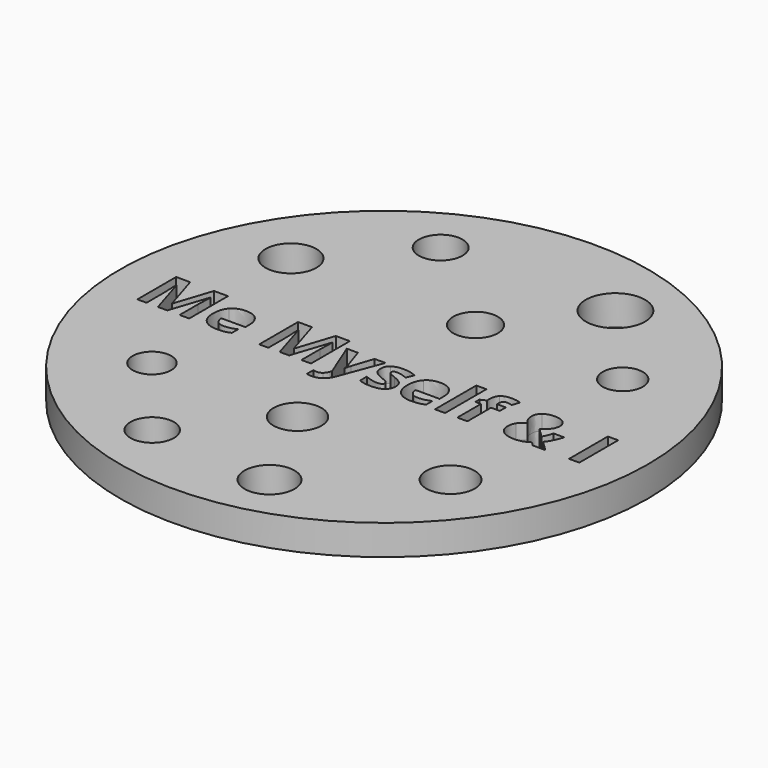
from build123d import *

# Parameters (mm, degrees)
F0_R     = 44.45
F0_W     = 1.7034223922
F0_H     = 8.6922802655
F0_W_2   = 1.7320212991
F0_H_2   = 8.1667753513
F1_DEPTH = 2.54
F2_R     = 3.6835932487
F2_R_2   = 3.3820051101
F2_R_3   = 3.2545137876
F2_R_4   = 4.2852526164
F2_R_5   = 4.9881322436
F2_R_6   = 4.2077682853
F2_R_7   = 4.0753540918
F2_R_8   = 4.0428833322
F2_R_9   = 3.7635417895
F2_R_10  = 3.6494043154
F3_DEPTH = 25.4
F4_DEPTH = 25.4


with BuildPart() as f1:
    # F0 (on Top) → F1 (new body, symmetric)
    with BuildSketch(Plane.XY):
        Circle(F0_R)
        with BuildLine():
            Line((-32.2921823926, -5.2659112288), (-33.8794217255, -5.2659112288))
            Line((-33.8794217255, -5.2659112288), (-35.8455965748, 1.1402439165))
            Line((-35.8455965748, 1.1402439165), (-35.8956446618, 1.1402439165))
            add(Edge.make_bspline(
                [(-35.8956446618, 1.1402439165), (-35.788398761, -0.813418911), (-35.788398761, -1.4676189063)],
                knots=[0, 0, 0, 1, 1, 1], degree=2))
            Line((-35.788398761, -1.4676189063), (-35.788398761, -5.2659112288))
            Line((-35.788398761, -5.2659112288), (-37.3363145969, -5.2659112288))
            Line((-37.3363145969, -5.2659112288), (-37.3363145969, 2.9008641224))
            Line((-37.3363145969, 2.9008641224), (-34.9786922094, 2.9008641224))
            Line((-34.9786922094, 2.9008641224), (-33.0464785621, -3.3444221716))
            Line((-33.0464785621, -3.3444221716), (-33.0125173601, -3.3444221716))
            Line((-33.0125173601, -3.3444221716), (-30.9623332218, 2.9008641224))
            Line((-30.9623332218, 2.9008641224), (-28.606498266, 2.9008641224))
            Line((-28.606498266, 2.9008641224), (-28.606498266, -5.2659112288))
            Line((-28.606498266, -5.2659112288), (-30.2205490741, -5.2659112288))
            Line((-30.2205490741, -5.2659112288), (-30.2205490741, -1.3996965025))
            add(Edge.make_bspline(
                [(-30.2205490741, -1.3996965025), (-30.2205490741, -1.1262194552), (-30.2116119157, -0.768733119)],
                knots=[0, 0, 0, 1, 1, 1], degree=2))
            add(Edge.make_bspline(
                [(-30.2116119157, -0.768733119), (-30.2026747573, -0.4112467828), (-30.1365397851, 1.1295193264)],
                knots=[0, 0, 0, 1, 1, 1], degree=2))
            Line((-30.1365397851, 1.1295193264), (-30.1865878722, 1.1295193264))
            Line((-30.1865878722, 1.1295193264), (-32.2921823926, -5.2659112288))
        make_face(mode=Mode.SUBTRACT)
        with BuildLine():
            add(Edge.make_bspline(
                [(-22.6186021341, -5.2694860922), (-23.1262327316, -5.3785194247), (-23.8590797208, -5.3785194247)],
                knots=[0, 0, 0, 1, 1, 1], degree=2))
            add(Edge.make_bspline(
                [(-23.8590797208, -5.3785194247), (-25.3658846281, -5.3785194247), (-26.2149146766, -4.5455762613)],
                knots=[0, 0, 0, 1, 1, 1], degree=2))
            add(Edge.make_bspline(
                [(-26.2149146766, -4.5455762613), (-27.0639447252, -3.7126330979), (-27.0639447252, -2.1879538738)],
                knots=[0, 0, 0, 1, 1, 1], degree=2))
            add(Edge.make_bspline(
                [(-27.0639447252, -2.1879538738), (-27.0639447252, -0.6185888578), (-26.2792622171, 0.2384846333)],
                knots=[0, 0, 0, 1, 1, 1], degree=2))
            add(Edge.make_bspline(
                [(-26.2792622171, 0.2384846333), (-25.4945797091, 1.0955581245), (-24.1093201562, 1.0955581245)],
                knots=[0, 0, 0, 1, 1, 1], degree=2))
            add(Edge.make_bspline(
                [(-24.1093201562, 1.0955581245), (-22.7866207121, 1.0955581245), (-22.0493051436, 0.3421556708)],
                knots=[0, 0, 0, 1, 1, 1], degree=2))
            add(Edge.make_bspline(
                [(-22.0493051436, 0.3421556708), (-21.3119895752, -0.4112467828), (-21.3119895752, -1.7410959536)],
                knots=[0, 0, 0, 1, 1, 1], degree=2))
            Line((-21.3119895752, -1.7410959536), (-21.3119895752, -2.5686768219))
            Line((-21.3119895752, -2.5686768219), (-25.3390731528, -2.5686768219))
            add(Edge.make_bspline(
                [(-25.3390731528, -2.5686768219), (-25.3104742459, -3.2943740845), (-24.9083021177, -3.7019085078)],
                knots=[0, 0, 0, 1, 1, 1], degree=2))
            add(Edge.make_bspline(
                [(-24.9083021177, -3.7019085078), (-24.5061299894, -4.1094429311), (-23.7804327269, -4.1094429311)],
                knots=[0, 0, 0, 1, 1, 1], degree=2))
            add(Edge.make_bspline(
                [(-23.7804327269, -4.1094429311), (-23.2156043156, -4.1094429311), (-22.7133360132, -3.992366156)],
                knots=[0, 0, 0, 1, 1, 1], degree=2))
            add(Edge.make_bspline(
                [(-22.7133360132, -3.992366156), (-22.2110677108, -3.8752893809), (-21.6641136164, -3.6178992188)],
                knots=[0, 0, 0, 1, 1, 1], degree=2))
            Line((-21.6641136164, -3.6178992188), (-21.6641136164, -4.9370237995))
            add(Edge.make_bspline(
                [(-21.6641136164, -4.9370237995), (-22.1109715366, -5.1604527596), (-22.6186021341, -5.2694860922)],
                knots=[0, 0, 0, 1, 1, 1], degree=2))
        make_face(mode=Mode.SUBTRACT)
        with BuildLine():
            Line((-11.7760415561, -5.2659112288), (-13.363280889, -5.2659112288))
            Line((-13.363280889, -5.2659112288), (-15.3294557383, 1.1402439165))
            Line((-15.3294557383, 1.1402439165), (-15.3795038254, 1.1402439165))
            add(Edge.make_bspline(
                [(-15.3795038254, 1.1402439165), (-15.2722579245, -0.813418911), (-15.2722579245, -1.4676189063)],
                knots=[0, 0, 0, 1, 1, 1], degree=2))
            Line((-15.2722579245, -1.4676189063), (-15.2722579245, -5.2659112288))
            Line((-15.2722579245, -5.2659112288), (-16.8201737604, -5.2659112288))
            Line((-16.8201737604, -5.2659112288), (-16.8201737604, 2.9008641224))
            Line((-16.8201737604, 2.9008641224), (-14.4625513729, 2.9008641224))
            Line((-14.4625513729, 2.9008641224), (-12.5303377256, -3.3444221716))
            Line((-12.5303377256, -3.3444221716), (-12.4963765236, -3.3444221716))
            Line((-12.4963765236, -3.3444221716), (-10.4461923853, 2.9008641224))
            Line((-10.4461923853, 2.9008641224), (-8.0903574295, 2.9008641224))
            Line((-8.0903574295, 2.9008641224), (-8.0903574295, -5.2659112288))
            Line((-8.0903574295, -5.2659112288), (-9.7044082376, -5.2659112288))
            Line((-9.7044082376, -5.2659112288), (-9.7044082376, -1.3996965025))
            add(Edge.make_bspline(
                [(-9.7044082376, -1.3996965025), (-9.7044082376, -1.1262194552), (-9.6954710792, -0.768733119)],
                knots=[0, 0, 0, 1, 1, 1], degree=2))
            add(Edge.make_bspline(
                [(-9.6954710792, -0.768733119), (-9.6865339208, -0.4112467828), (-9.6203989486, 1.1295193264)],
                knots=[0, 0, 0, 1, 1, 1], degree=2))
            Line((-9.6203989486, 1.1295193264), (-9.6704470357, 1.1295193264))
            Line((-9.6704470357, 1.1295193264), (-11.7760415561, -5.2659112288))
        make_face(mode=Mode.SUBTRACT)
        with BuildLine():
            Line((-4.5816290394, -5.2212254368), (-7.0625842129, 0.9793750652))
            Line((-7.0625842129, 0.9793750652), (-5.1965055377, 0.9793750652))
            Line((-5.1965055377, 0.9793750652), (-4.0185880598, -2.53471562))
            add(Edge.make_bspline(
                [(-4.0185880598, -2.53471562), (-3.8666563669, -2.9922981304), (-3.8112459848, -3.6178992188)],
                knots=[0, 0, 0, 1, 1, 1], degree=2))
            Line((-3.8112459848, -3.6178992188), (-3.7772847829, -3.6178992188))
            add(Edge.make_bspline(
                [(-3.7772847829, -3.6178992188), (-3.7165121057, -3.0423462174), (-3.5377689376, -2.53471562)],
                knots=[0, 0, 0, 1, 1, 1], degree=2))
            Line((-3.5377689376, -2.53471562), (-2.3813006399, 0.9793750652))
            Line((-2.3813006399, 0.9793750652), (-0.5545454617, 0.9793750652))
            Line((-0.5545454617, 0.9793750652), (-3.1963694865, -6.0648931903))
            add(Edge.make_bspline(
                [(-3.1963694865, -6.0648931903), (-3.5610055495, -7.0426183199), (-4.2339735774, -7.5287997372)],
                knots=[0, 0, 0, 1, 1, 1], degree=2))
            add(Edge.make_bspline(
                [(-4.2339735774, -7.5287997372), (-4.9069416054, -8.0149811545), (-5.806019741, -8.0149811545)],
                knots=[0, 0, 0, 1, 1, 1], degree=2))
            add(Edge.make_bspline(
                [(-5.806019741, -8.0149811545), (-6.2475153663, -8.0149811545), (-6.6711366747, -7.9184598437)],
                knots=[0, 0, 0, 1, 1, 1], degree=2))
            Line((-6.6711366747, -7.9184598437), (-6.6711366747, -6.5671614927))
            add(Edge.make_bspline(
                [(-6.6711366747, -6.5671614927), (-6.3636984255, -6.6404461916), (-6.0008497943, -6.6404461916)],
                knots=[0, 0, 0, 1, 1, 1], degree=2))
            add(Edge.make_bspline(
                [(-6.0008497943, -6.6404461916), (-5.5486295789, -6.6404461916), (-5.2108049912, -6.3633942811)],
                knots=[0, 0, 0, 1, 1, 1], degree=2))
            add(Edge.make_bspline(
                [(-5.2108049912, -6.3633942811), (-4.8729804034, -6.0863423705), (-4.6835126452, -5.528663686)],
                knots=[0, 0, 0, 1, 1, 1], degree=2))
            Line((-4.6835126452, -5.528663686), (-4.5816290394, -5.2212254368))
        make_face(mode=Mode.SUBTRACT)
        with BuildLine():
            add(Edge.make_bspline(
                [(4.5342725346, -2.6124688981), (4.6969288176, -2.9476123383), (4.6969288176, -3.4105571438)],
                knots=[0, 0, 0, 1, 1, 1], degree=2))
            add(Edge.make_bspline(
                [(4.6969288176, -3.4105571438), (4.6969288176, -4.3721953882), (4.0293230846, -4.8753574065)],
                knots=[0, 0, 0, 1, 1, 1], degree=2))
            add(Edge.make_bspline(
                [(4.0293230846, -4.8753574065), (3.3617173517, -5.3785194247), (2.0318681809, -5.3785194247)],
                knots=[0, 0, 0, 1, 1, 1], degree=2))
            add(Edge.make_bspline(
                [(2.0318681809, -5.3785194247), (1.3508567104, -5.3785194247), (0.8700375882, -5.2855729773)],
                knots=[0, 0, 0, 1, 1, 1], degree=2))
            add(Edge.make_bspline(
                [(0.8700375882, -5.2855729773), (0.3892184659, -5.1926265299), (-0.0290405475, -5.0138833618)],
                knots=[0, 0, 0, 1, 1, 1], degree=2))
            Line((-0.0290405475, -5.0138833618), (-0.0290405475, -3.6071746287))
            add(Edge.make_bspline(
                [(-0.0290405475, -3.6071746287), (0.4446288481, -3.8306035888), (1.0398435979, -3.9816415659)],
                knots=[0, 0, 0, 1, 1, 1], degree=2))
            add(Edge.make_bspline(
                [(1.0398435979, -3.9816415659), (1.6350583477, -4.132679543), (2.087278563, -4.132679543)],
                knots=[0, 0, 0, 1, 1, 1], degree=2))
            add(Edge.make_bspline(
                [(2.087278563, -4.132679543), (3.0149556056, -4.132679543), (3.0149556056, -3.5964500386)],
                knots=[0, 0, 0, 1, 1, 1], degree=2))
            add(Edge.make_bspline(
                [(3.0149556056, -3.5964500386), (3.0149556056, -3.3944702586), (2.8916228196, -3.2684563251)],
                knots=[0, 0, 0, 1, 1, 1], degree=2))
            add(Edge.make_bspline(
                [(2.8916228196, -3.2684563251), (2.7682900336, -3.1424423916), (2.4671077953, -2.983360972)],
                knots=[0, 0, 0, 1, 1, 1], degree=2))
            add(Edge.make_bspline(
                [(2.4671077953, -2.983360972), (2.165925557, -2.8242795523), (1.6636572546, -2.613362614)],
                knots=[0, 0, 0, 1, 1, 1], degree=2))
            add(Edge.make_bspline(
                [(1.6636572546, -2.613362614), (0.9433222871, -2.3112866599), (0.6046039835, -2.0538964978)],
                knots=[0, 0, 0, 1, 1, 1], degree=2))
            add(Edge.make_bspline(
                [(0.6046039835, -2.0538964978), (0.2658856799, -1.7965063357), (0.1130602712, -1.464044043)],
                knots=[0, 0, 0, 1, 1, 1], degree=2))
            add(Edge.make_bspline(
                [(0.1130602712, -1.464044043), (-0.0397651375, -1.1315817503), (-0.0397651375, -0.6471877647)],
                knots=[0, 0, 0, 1, 1, 1], degree=2))
            add(Edge.make_bspline(
                [(-0.0397651375, -0.6471877647), (-0.0397651375, 0.1857553987), (0.6046039835, 0.6406567616)],
                knots=[0, 0, 0, 1, 1, 1], degree=2))
            add(Edge.make_bspline(
                [(0.6046039835, 0.6406567616), (1.2489731046, 1.0955581245), (2.4340403092, 1.0955581245)],
                knots=[0, 0, 0, 1, 1, 1], degree=2))
            add(Edge.make_bspline(
                [(2.4340403092, 1.0955581245), (3.5619097, 1.0955581245), (4.6290064137, 0.6040144121)],
                knots=[0, 0, 0, 1, 1, 1], degree=2))
            Line((4.6290064137, 0.6040144121), (4.1160135212, -0.6239511528))
            add(Edge.make_bspline(
                [(4.1160135212, -0.6239511528), (3.645918989, -0.4237588045), (3.2383845657, -0.2950637235)],
                knots=[0, 0, 0, 1, 1, 1], degree=2))
            add(Edge.make_bspline(
                [(3.2383845657, -0.2950637235), (2.8308501424, -0.1663686424), (2.4054414023, -0.1663686424)],
                knots=[0, 0, 0, 1, 1, 1], degree=2))
            add(Edge.make_bspline(
                [(2.4054414023, -0.1663686424), (1.6511452328, -0.1663686424), (1.6511452328, -0.5739030658)],
                knots=[0, 0, 0, 1, 1, 1], degree=2))
            add(Edge.make_bspline(
                [(1.6511452328, -0.5739030658), (1.6511452328, -0.8026943209), (1.8942359415, -0.970712899)],
                knots=[0, 0, 0, 1, 1, 1], degree=2))
            add(Edge.make_bspline(
                [(1.8942359415, -0.970712899), (2.1373266501, -1.138731477), (2.9595452235, -1.4676189063)],
                knots=[0, 0, 0, 1, 1, 1], degree=2))
            add(Edge.make_bspline(
                [(2.9595452235, -1.4676189063), (3.6906047811, -1.7643325654), (4.0311105163, -2.0208290117)],
                knots=[0, 0, 0, 1, 1, 1], degree=2))
            add(Edge.make_bspline(
                [(4.0311105163, -2.0208290117), (4.3716162516, -2.2773254579), (4.5342725346, -2.6124688981)],
                knots=[0, 0, 0, 1, 1, 1], degree=2))
        make_face(mode=Mode.SUBTRACT)
        with BuildLine():
            add(Edge.make_bspline(
                [(10.0913976313, -5.2694860922), (9.5837670339, -5.3785194247), (8.8509200446, -5.3785194247)],
                knots=[0, 0, 0, 1, 1, 1], degree=2))
            add(Edge.make_bspline(
                [(8.8509200446, -5.3785194247), (7.3441151374, -5.3785194247), (6.4950850888, -4.5455762613)],
                knots=[0, 0, 0, 1, 1, 1], degree=2))
            add(Edge.make_bspline(
                [(6.4950850888, -4.5455762613), (5.6460550403, -3.7126330979), (5.6460550403, -2.1879538738)],
                knots=[0, 0, 0, 1, 1, 1], degree=2))
            add(Edge.make_bspline(
                [(5.6460550403, -2.1879538738), (5.6460550403, -0.6185888578), (6.4307375483, 0.2384846333)],
                knots=[0, 0, 0, 1, 1, 1], degree=2))
            add(Edge.make_bspline(
                [(6.4307375483, 0.2384846333), (7.2154200563, 1.0955581245), (8.6006796092, 1.0955581245)],
                knots=[0, 0, 0, 1, 1, 1], degree=2))
            add(Edge.make_bspline(
                [(8.6006796092, 1.0955581245), (9.9233790533, 1.0955581245), (10.6606946218, 0.3421556708)],
                knots=[0, 0, 0, 1, 1, 1], degree=2))
            add(Edge.make_bspline(
                [(10.6606946218, 0.3421556708), (11.3980101903, -0.4112467828), (11.3980101903, -1.7410959536)],
                knots=[0, 0, 0, 1, 1, 1], degree=2))
            Line((11.3980101903, -1.7410959536), (11.3980101903, -2.5686768219))
            Line((11.3980101903, -2.5686768219), (7.3709266126, -2.5686768219))
            add(Edge.make_bspline(
                [(7.3709266126, -2.5686768219), (7.3995255195, -3.2943740845), (7.8016976478, -3.7019085078)],
                knots=[0, 0, 0, 1, 1, 1], degree=2))
            add(Edge.make_bspline(
                [(7.8016976478, -3.7019085078), (8.203869776, -4.1094429311), (8.9295670386, -4.1094429311)],
                knots=[0, 0, 0, 1, 1, 1], degree=2))
            add(Edge.make_bspline(
                [(8.9295670386, -4.1094429311), (9.4943954498, -4.1094429311), (9.9966637522, -3.992366156)],
                knots=[0, 0, 0, 1, 1, 1], degree=2))
            add(Edge.make_bspline(
                [(9.9966637522, -3.992366156), (10.4989320546, -3.8752893809), (11.0458861491, -3.6178992188)],
                knots=[0, 0, 0, 1, 1, 1], degree=2))
            Line((11.0458861491, -3.6178992188), (11.0458861491, -4.9370237995))
            add(Edge.make_bspline(
                [(11.0458861491, -4.9370237995), (10.5990282288, -5.1604527596), (10.0913976313, -5.2694860922)],
                knots=[0, 0, 0, 1, 1, 1], degree=2))
        make_face(mode=Mode.SUBTRACT)
        with Locations((13.6349809393, -0.9197710961)):
            Rectangle(F0_W, F0_H, mode=Mode.SUBTRACT)
        with BuildLine():
            Line((19.7256543928, 0.9793750652), (19.7256543928, -0.3004260185))
            Line((19.7256543928, -0.3004260185), (18.2510232559, -0.3004260185))
            Line((18.2510232559, -0.3004260185), (18.2510232559, -5.2659112288))
            Line((18.2510232559, -5.2659112288), (16.5476008637, -5.2659112288))
            Line((16.5476008637, -5.2659112288), (16.5476008637, -0.3004260185))
            Line((16.5476008637, -0.3004260185), (15.6091992311, -0.3004260185))
            Line((15.6091992311, -0.3004260185), (15.6091992311, 0.5217925548))
            Line((15.6091992311, 0.5217925548), (16.5476008637, 0.9793750652))
            Line((16.5476008637, 0.9793750652), (16.5476008637, 1.4369575756))
            add(Edge.make_bspline(
                [(16.5476008637, 1.4369575756), (16.5476008637, 2.5040542892), (17.073105778, 2.9955980015)],
                knots=[0, 0, 0, 1, 1, 1], degree=2))
            add(Edge.make_bspline(
                [(17.073105778, 2.9955980015), (17.5986106922, 3.4871417139), (18.75507899, 3.4871417139)],
                knots=[0, 0, 0, 1, 1, 1], degree=2))
            add(Edge.make_bspline(
                [(18.75507899, 3.4871417139), (19.6362828088, 3.4871417139), (20.324444006, 3.2243892567)],
                knots=[0, 0, 0, 1, 1, 1], degree=2))
            Line((20.324444006, 3.2243892567), (19.8883106758, 1.9731870799))
            add(Edge.make_bspline(
                [(19.8883106758, 1.9731870799), (19.3735303517, 2.1358433629), (18.9391844531, 2.1358433629)],
                knots=[0, 0, 0, 1, 1, 1], degree=2))
            add(Edge.make_bspline(
                [(18.9391844531, 2.1358433629), (18.5763358218, 2.1358433629), (18.4136795389, 1.9204578453)],
                knots=[0, 0, 0, 1, 1, 1], degree=2))
            add(Edge.make_bspline(
                [(18.4136795389, 1.9204578453), (18.2510232559, 1.7050723277), (18.2510232559, 1.3708226034)],
                knots=[0, 0, 0, 1, 1, 1], degree=2))
            Line((18.2510232559, 1.3708226034), (18.2510232559, 0.9793750652))
            Line((18.2510232559, 0.9793750652), (19.7256543928, 0.9793750652))
        make_face(mode=Mode.SUBTRACT)
        with BuildLine():
            Line((29.6798614253, -3.6286238089), (31.3618346373, -5.2659112288))
            Line((31.3618346373, -5.2659112288), (29.2562401168, -5.2659112288))
            Line((29.2562401168, -5.2659112288), (28.6145521433, -4.6349478454))
            add(Edge.make_bspline(
                [(28.6145521433, -4.6349478454), (27.5474554296, -5.3785194247), (26.2015193737, -5.3785194247)],
                knots=[0, 0, 0, 1, 1, 1], degree=2))
            add(Edge.make_bspline(
                [(26.2015193737, -5.3785194247), (24.837709001, -5.3785194247), (24.0387270395, -4.7520246205)],
                knots=[0, 0, 0, 1, 1, 1], degree=2))
            add(Edge.make_bspline(
                [(24.0387270395, -4.7520246205), (23.239745078, -4.1255298162), (23.239745078, -3.0602205343)],
                knots=[0, 0, 0, 1, 1, 1], degree=2))
            add(Edge.make_bspline(
                [(23.239745078, -3.0602205343), (23.239745078, -2.293412343), (23.5775696658, -1.7545016912)],
                knots=[0, 0, 0, 1, 1, 1], degree=2))
            add(Edge.make_bspline(
                [(23.5775696658, -1.7545016912), (23.9153942535, -1.2155910393), (24.7376128268, -0.7472839388)],
                knots=[0, 0, 0, 1, 1, 1], degree=2))
            add(Edge.make_bspline(
                [(24.7376128268, -0.7472839388), (24.3175663818, -0.2664648166), (24.1280986236, 0.1723496611)],
                knots=[0, 0, 0, 1, 1, 1], degree=2))
            add(Edge.make_bspline(
                [(24.1280986236, 0.1723496611), (23.9386308654, 0.6111641389), (23.9386308654, 1.1295193264)],
                knots=[0, 0, 0, 1, 1, 1], degree=2))
            add(Edge.make_bspline(
                [(23.9386308654, 1.1295193264), (23.9386308654, 1.978549375), (24.5892559973, 2.4977982783)],
                knots=[0, 0, 0, 1, 1, 1], degree=2))
            add(Edge.make_bspline(
                [(24.5892559973, 2.4977982783), (25.2398811293, 3.0170471817), (26.3284270231, 3.0170471817)],
                knots=[0, 0, 0, 1, 1, 1], degree=2))
            add(Edge.make_bspline(
                [(26.3284270231, 3.0170471817), (27.3687122615, 3.0170471817), (27.9916322024, 2.5344406278)],
                knots=[0, 0, 0, 1, 1, 1], degree=2))
            add(Edge.make_bspline(
                [(27.9916322024, 2.5344406278), (28.6145521433, 2.0518340739), (28.6145521433, 1.2421275223)],
                knots=[0, 0, 0, 1, 1, 1], degree=2))
            add(Edge.make_bspline(
                [(28.6145521433, 1.2421275223), (28.6145521433, 0.5772029369), (28.2284669002, 0.0266739791)],
                knots=[0, 0, 0, 1, 1, 1], degree=2))
            add(Edge.make_bspline(
                [(28.2284669002, 0.0266739791), (27.842381657, -0.5238549787), (26.9826270184, -1.020760986)],
                knots=[0, 0, 0, 1, 1, 1], degree=2))
            Line((26.9826270184, -1.020760986), (28.5698663513, -2.5686768219))
            add(Edge.make_bspline(
                [(28.5698663513, -2.5686768219), (28.9648887528, -1.9144768266), (29.2562401168, -0.88670361)],
                knots=[0, 0, 0, 1, 1, 1], degree=2))
            Line((29.2562401168, -0.88670361), (31.0329472079, -0.88670361))
            add(Edge.make_bspline(
                [(31.0329472079, -0.88670361), (30.830967428, -1.6409997794), (30.4788433868, -2.3586535994)],
                knots=[0, 0, 0, 1, 1, 1], degree=2))
            add(Edge.make_bspline(
                [(30.4788433868, -2.3586535994), (30.1267193456, -3.0763074194), (29.6798614253, -3.6286238089)],
                knots=[0, 0, 0, 1, 1, 1], degree=2))
        make_face(mode=Mode.SUBTRACT)
        with Locations((36.2281173893, -1.1825235532)):
            Rectangle(F0_W_2, F0_H_2, mode=Mode.SUBTRACT)
    extrude(amount=F1_DEPTH, both=True)

    # F2 (on Top) → F3 (cut)
    with BuildSketch(Plane.XY):
        with Locations((-15.4026634991, 31.1632025987)):
            Circle(F2_R)
        with Locations((26.7286058515, 16.8244093657)):
            Circle(F2_R_2)
        with Locations((-24.5088879019, -18.2292144746)):
            Circle(F2_R_3)
        with Locations((-28.856344521, 16.4703652263)):
            Circle(F2_R_4)
        with Locations((13.7650044635, 31.4912907779)):
            Circle(F2_R_5)
        with Locations((8.3183022216, -34.5120094717)):
            Circle(F2_R_6)
        with Locations((26.9056279212, -19.6421518922)):
            Circle(F2_R_7)
        with Locations((0, -18.2259716094)):
            Circle(F2_R_8)
        with Locations((1.9455055008, 16.8244093657)):
            Circle(F2_R_9)
        with Locations((-12.5703094527, -33.0958329141)):
            Circle(F2_R_10)
    extrude(amount=-F3_DEPTH, mode=Mode.SUBTRACT)

    # F2 (on Top) → F4 (cut)
    with BuildSketch(Plane.XY):
        with Locations((-15.4026634991, 31.1632025987)):
            Circle(F2_R)
        with Locations((26.7286058515, 16.8244093657)):
            Circle(F2_R_2)
        with Locations((-24.5088879019, -18.2292144746)):
            Circle(F2_R_3)
        with Locations((-28.856344521, 16.4703652263)):
            Circle(F2_R_4)
        with Locations((13.7650044635, 31.4912907779)):
            Circle(F2_R_5)
        with Locations((8.3183022216, -34.5120094717)):
            Circle(F2_R_6)
        with Locations((26.9056279212, -19.6421518922)):
            Circle(F2_R_7)
        with Locations((0, -18.2259716094)):
            Circle(F2_R_8)
        with Locations((1.9455055008, 16.8244093657)):
            Circle(F2_R_9)
        with Locations((-12.5703094527, -33.0958329141)):
            Circle(F2_R_10)
    extrude(amount=F4_DEPTH, mode=Mode.SUBTRACT)


solid = f1.part
